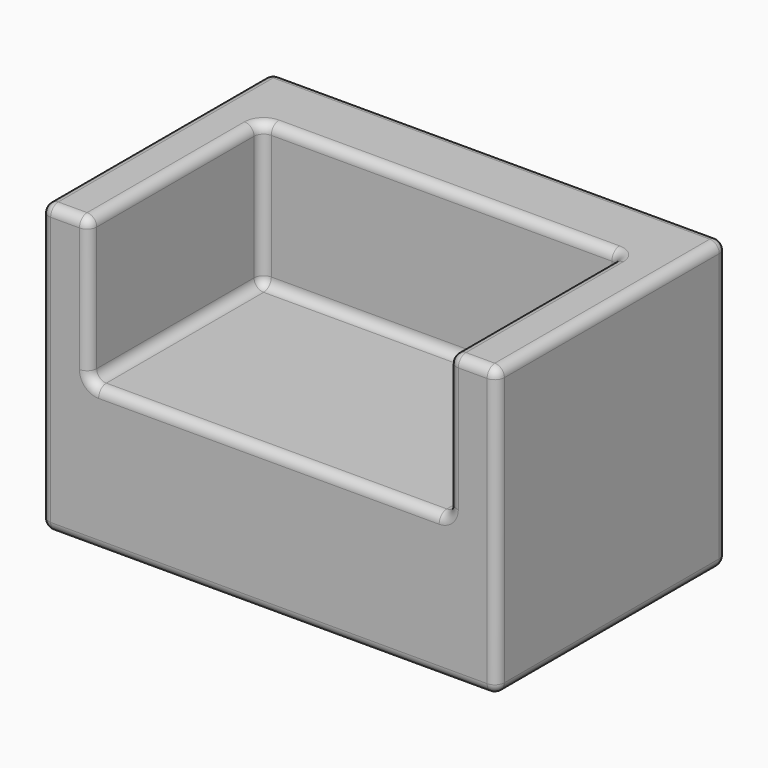
from build123d import *

# Parameters (mm, degrees)
F0_W     = 1447.8
F0_H     = 914.4
F1_DEPTH = 914.4
F2_W     = 1143
F2_H     = 685.8
F3_DEPTH = 457.2
F4_R     = 30.48


with BuildPart() as f1:
    # F0 (on Top) → F1 (new body)
    with BuildSketch(Plane.XY):
        Rectangle(F0_W, F0_H)
    extrude(amount=F1_DEPTH)

    # F2 (on face) → F3 (cut)
    with BuildSketch(Plane.XY.offset(914.4)):
        with Locations((0, -114.3)):
            Rectangle(F2_W, F2_H)
    extrude(amount=-F3_DEPTH, mode=Mode.SUBTRACT)

    # F4
    f4_edges = [f1.edges().sort_by_distance(p)[0] for p in [
        (0, -457.2, 0),
        (723.9, -457.2, 457.2),
        (647.7, -457.2, 914.4),
        (571.5, -457.2, 685.8),
        (0, -457.2, 457.2),
        (-571.5, -457.2, 685.8),
        (-647.7, -457.2, 914.4),
        (-723.9, -457.2, 457.2),
        (723.9, 457.2, 457.2),
        (723.9, 0, 0),
        (723.9, 0, 914.4),
        (-723.9, 0, 914.4),
        (0, 457.2, 914.4),
        (571.5, -114.3, 914.4),
        (0, 228.6, 914.4),
        (-571.5, -114.3, 914.4),
        (571.5, -114.3, 457.2),
        (0, 228.6, 457.2),
        (-571.5, -114.3, 457.2),
        (571.5, 228.6, 685.8),
        (-571.5, 228.6, 685.8),
        (-723.9, 457.2, 457.2),
        (-723.9, 0, 0),
        (0, 457.2, 0),
    ]]
    fillet(f4_edges, radius=F4_R)


solid = f1.part
